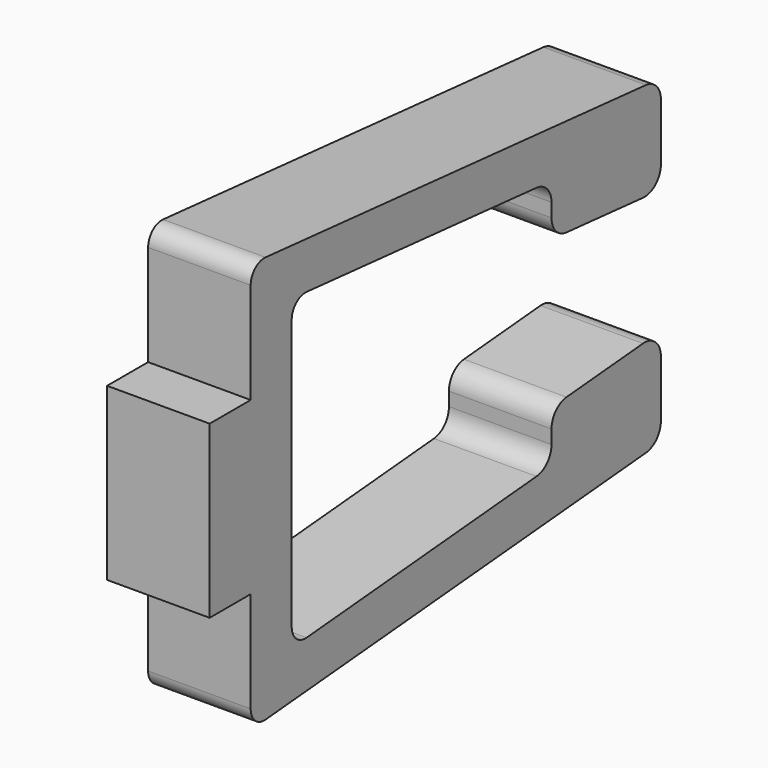
from build123d import *

# Parameters (mm, degrees)
PAD001_DEPTH = 3
FILLET001_R  = 0.6
FILLET002_R  = 0.5


with BuildPart() as part:
    # Sketch002 (on DatumPlane) → Pad001 (new body)
    with BuildSketch(Plane.YZ.offset(-3.381818)):
        Polygon((2, 12.172727), (17, 10.860397), (17, 7.99163), (13, 8.341585), (13, 9.841585), (3.5, 10.672727), (3.5, 1.672727), (13, 2.50387), (13, 4.00387), (17, 4.353824), (17, 1.485057), (2, 0.172727), (2, 3.672727), (0.5, 3.672727), (0.5, 8.672727), (2, 8.672727), align=None)
    extrude(amount=PAD001_DEPTH)

    # Fillet001
    fillet001_edges = [part.edges().sort_by_distance(p)[0] for p in [
        (-1.881818, 17, 4.353824),
        (-1.881818, 17, 10.860397),
        (-1.881818, 17, 7.99163),
        (-1.881818, 17, 1.485057),
        (-1.881818, 13, 8.341585),
        (-1.881818, 13, 4.00387),
        (-1.881818, 13, 2.50387),
        (-1.881818, 13, 9.841585),
    ]]
    fillet(fillet001_edges, radius=FILLET001_R)

    # Fillet002
    fillet002_edges = [part.edges().sort_by_distance(p)[0] for p in [
        (-1.881818, 2, 0.172727),
        (-1.881818, 3.5, 1.672727),
        (-1.881818, 3.5, 10.672727),
        (-1.881818, 2, 12.172727),
    ]]
    fillet(fillet002_edges, radius=FILLET002_R)


solid = part.part
